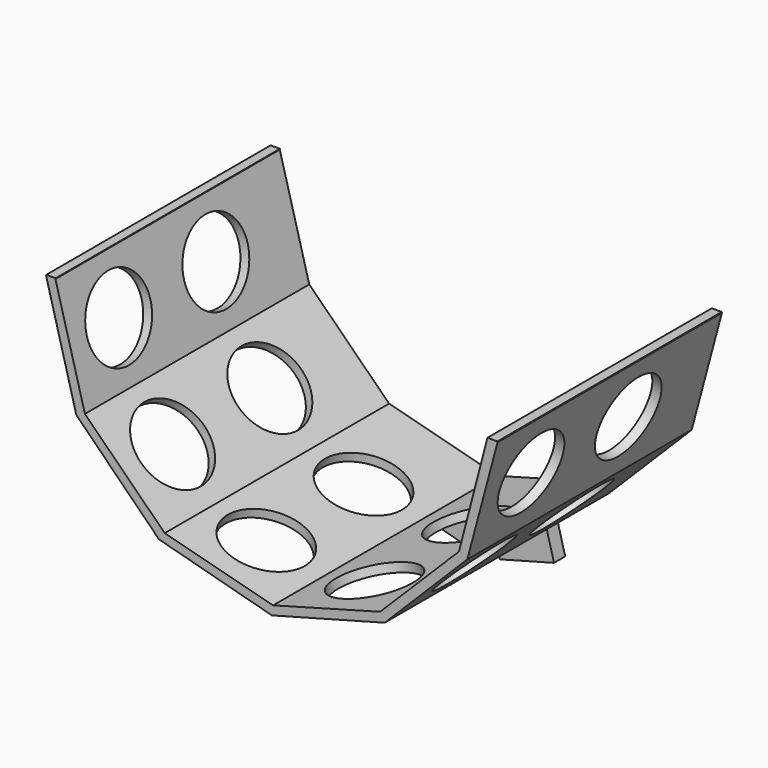
from build123d import *

# Parameters (mm, degrees)
BOX_W           = 100
BOX_H           = 63
BOX_DEPTH       = 57
PAD_DEPTH       = 60
POCKET_DEPTH    = 60
SKETCH002_R     = 8.5
POCKET001_DEPTH = 5
SKETCH003_R     = 8.5
POCKET002_DEPTH = 5
SKETCH004_R     = 8.5
POCKET003_DEPTH = 5
SKETCH005_R     = 8.5
POCKET004_DEPTH = 5
SKETCH006_R     = 8.5
POCKET005_DEPTH = 5
SKETCH007_R     = 8.5
POCKET006_DEPTH = 5
SKETCH008_W     = 12
SKETCH008_H     = 3
PAD001_DEPTH    = 12
SKETCH009_W     = 12
SKETCH009_H     = 3
PAD002_DEPTH    = 12
SKETCH010_R     = 1.6
POCKET007_DEPTH = 5


with BuildPart() as cubo:
    # Box → Box (new body)
    with BuildSketch(Plane(origin=(-50, -62, -35), x_dir=(1, 0, 0), z_dir=(0, 0, 1))):
        with Locations((50, 31.5)):
            Rectangle(BOX_W, BOX_H)
    extrude(amount=BOX_DEPTH)


with BuildPart() as cut:
    # Sketch → Pad (new body)
    with BuildSketch(Plane.XZ):
        Polygon((0, 13.1372921726), (-24.1481456572, 6.666816045), (-41.8258151869, -11.0108534847), (-48.2962913145, -35.1589991419), (-41.8258151869, -59.3071447991), (-24.1481456572, -76.9848143288), (0, -83.4552904564), (24.1481456572, -76.9848143288), (41.8258151869, -59.3071447991), (48.2962913145, -35.1589991419), (41.8258151869, -11.0108534847), (24.1481456572, 6.666816045), align=None)
    extrude(amount=PAD_DEPTH)

    # Sketch001 (on Face13 of Pad) → Pocket (cut)
    with BuildSketch(Plane(origin=(0, 0, 0), x_dir=(1, 0, 0), z_dir=(0, 1, 0))):
        Polygon((0.2789274024, 81.4748360882), (23.1696976244, 75.2404980022), (40.0320556094, 58.422596), (46.1550508689, 34.895187618), (40.0872400093, 11.9994668326), (23.2933636529, -4.8586822764), (-0.3577352301, -11.1695458715), (-23.1458968596, -4.9360655293), (-40.0016837516, 11.8309415939), (-46.2963180976, 35.1693495985), (-39.9901052234, 58.5133129971), (-22.9100181577, 75.4141328541), align=None)
    extrude(amount=-POCKET_DEPTH, mode=Mode.SUBTRACT)

    # Sketch002 (on Face11 of Pocket) → Pocket001 (cut)
    with BuildSketch(Plane(origin=(-50.566479993, 0, -50.566479993), x_dir=(0.7071067812, 0, -0.7071067812), z_dir=(-0.7071067812, 0, -0.7071067812))):
        with Locations((24.861166713, 47)):
            Circle(SKETCH002_R)
        with Locations((24.861166713, 21)):
            Circle(SKETCH002_R)
    extrude(amount=-POCKET001_DEPTH, mode=Mode.SUBTRACT)

    # Sketch003 (on Face13 of Pocket001) → Pocket002 (cut)
    with BuildSketch(Plane(origin=(-20.8638226141, 0, -77.8648460359), x_dir=(0.9659258263, 0, -0.2588190451), z_dir=(-0.2588190451, 0, -0.9659258263))):
        with Locations((9.0998185847, 47)):
            Circle(SKETCH003_R)
        with Locations((9.0998185847, 21)):
            Circle(SKETCH003_R)
    extrude(amount=-POCKET002_DEPTH, mode=Mode.SUBTRACT)

    # Sketch004 (on Face14 of Pocket002) → Pocket003 (cut)
    with BuildSketch(Plane(origin=(20.8638226141, 0, -77.8648460359), x_dir=(0.9659258263, 0, 0.2588190451), z_dir=(0.2588190451, 0, -0.9659258263))):
        with Locations((-9.0998185847, 47)):
            Circle(SKETCH004_R)
        with Locations((-9.0998185847, 21)):
            Circle(SKETCH004_R)
    extrude(amount=-POCKET003_DEPTH, mode=Mode.SUBTRACT)

    # Sketch005 (on Face12 of Pocket003) → Pocket004 (cut)
    with BuildSketch(Plane(origin=(50.566479993, 0, -50.566479993), x_dir=(0.7071067812, 0, 0.7071067812), z_dir=(0.7071067812, 0, -0.7071067812))):
        with Locations((-24.861166713, 47)):
            Circle(SKETCH005_R)
        with Locations((-24.861166713, 21)):
            Circle(SKETCH005_R)
    extrude(amount=-POCKET004_DEPTH, mode=Mode.SUBTRACT)

    # Sketch006 (on Face10 of Pocket004) → Pocket005 (cut)
    with BuildSketch(Plane(origin=(53.8508030361, 0, -14.4292791853), x_dir=(0.2588190451, 0, 0.9659258263), z_dir=(0.9659258263, 0, -0.2588190451))):
        with Locations((-33.9609852976, 47)):
            Circle(SKETCH006_R)
        with Locations((-33.9609852976, 21)):
            Circle(SKETCH006_R)
    extrude(amount=-POCKET005_DEPTH, mode=Mode.SUBTRACT)

    # Sketch007 (on Face9 of Pocket005) → Pocket006 (cut)
    with BuildSketch(Plane(origin=(-53.8508030361, 0, -14.4292791853), x_dir=(0.2588190451, 0, -0.9659258263), z_dir=(-0.9659258263, 0, -0.2588190451))):
        with Locations((33.9609852976, 47)):
            Circle(SKETCH007_R)
        with Locations((33.9609852976, 21)):
            Circle(SKETCH007_R)
    extrude(amount=-POCKET006_DEPTH, mode=Mode.SUBTRACT)

    # Sketch008 (on Face14 of Pocket006) → Pad001 (join)
    with BuildSketch(Plane(origin=(20.8638226141, 0, -77.8648460359), x_dir=(0.9659258263, 0, 0.2588190451), z_dir=(0.2588190451, 0, -0.9659258263))):
        with Locations((-15.4992547125, 1.5258008155)):
            Rectangle(SKETCH008_W, SKETCH008_H)
    extrude(amount=PAD001_DEPTH)

    # Sketch009 (on Face13 of Pad001) → Pad002 (join)
    with BuildSketch(Plane(origin=(-20.8638226141, 0, -77.8648460359), x_dir=(0.9659258263, 0, -0.2588190451), z_dir=(-0.2588190451, 0, -0.9659258263))):
        with Locations((15.5166798155, 1.4931005082)):
            Rectangle(SKETCH009_W, SKETCH009_H)
    extrude(amount=PAD002_DEPTH)

    # Sketch010 (on Face42 of Pad002) → Pocket007 (cut)
    with BuildSketch(Plane.XZ.offset(3.0258008155)):
        with Locations((7.5046039895, -87.5720469825)):
            Circle(SKETCH010_R)
        with Locations((-7.1870487225, -87.7029523498)):
            Circle(SKETCH010_R)
    extrude(amount=-POCKET007_DEPTH, mode=Mode.SUBTRACT)

    # Cut: cut Cubo
    add(cubo.part, mode=Mode.SUBTRACT)


solid = cut.part
